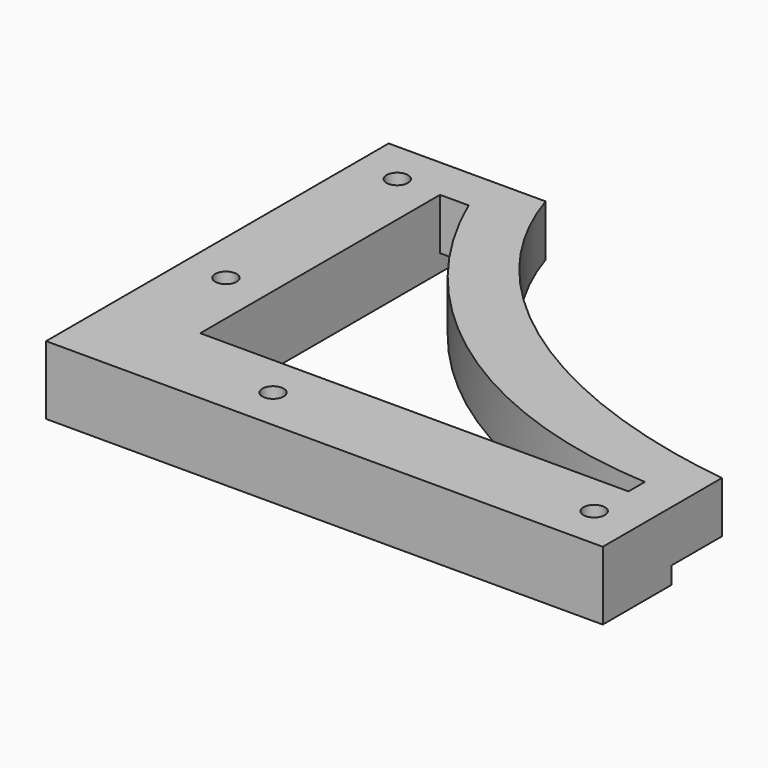
from build123d import *

# Parameters (mm, degrees)
F1_DEPTH  = 12
F2_W      = 130
F2_H      = 20
F3_DEPTH  = 5
F4_W      = 105
F4_H      = 20
F5_DEPTH  = 5
F7_W      = 20
F7_H      = 100
F7_R      = 2.5
F7_H_2    = 20
F7_W_2    = 130
F8_DEPTH  = 25
F9_DEPTH  = 5
F10_W     = 130
F10_H     = 20
F10_W_2   = 20
F10_H_2   = 100
F11_DEPTH = 25
F12_W     = 100
F12_H     = 9
F13_DEPTH = 150
F15_DEPTH = 25


with BuildPart() as f1:
    # F0 (on Top) → F1 (new body)
    with BuildSketch(Plane.XY):
        with BuildLine():
            add(Edge.make_bspline(
                [(-116.5, 0), (-116.5, -86.5), (0, -86.5)],
                knots=[3.1415926536, 3.1415926536, 3.1415926536, 4.7123889804, 4.7123889804, 4.7123889804], degree=2, weights=[1, 0.7071067812, 1]))
            Line((-116.5, 0), (-116.5, -86.5))
            Line((-116.5, -86.5), (0, -86.5))
        make_face()
        Polygon((-116.5, -86.5), (-116.5, 0), (-130, 0), (-130, -100), (0, -100), (0, -86.5), align=None)
    extrude(amount=F1_DEPTH)

    # F2 (on face) → F3 (join)
    with BuildSketch(Plane.XZ.offset(100)):
        with Locations((-65, 6)):
            Rectangle(F2_W, F2_H)
    extrude(amount=F3_DEPTH)

    # F4 (on face) → F5 (join)
    with BuildSketch(Plane(origin=(-130, 0, 0), x_dir=(0, -1, 0), z_dir=(-1, 0, 0))):
        with Locations((52.5, 6)):
            Rectangle(F4_W, F4_H)
    extrude(amount=F5_DEPTH)

    # F7 (on face) → F8 (join)
    with BuildSketch(Plane(origin=(0, 0, -4), x_dir=(1, 0, 0), z_dir=(0, 0, -1))):
        with Locations((-140, 50)):
            Rectangle(F7_W, F7_H)
        with Locations((-140, 30)):
            Circle(F7_R, mode=Mode.SUBTRACT)
        with Locations((-140, 80)):
            Circle(F7_R, mode=Mode.SUBTRACT)
        with Locations((-140, 110)):
            Rectangle(F7_W, F7_H_2)
        with Locations((-65, 110)):
            Rectangle(F7_W_2, F7_H_2)
        with Locations((-105, 110)):
            Circle(F7_R, mode=Mode.SUBTRACT)
        with Locations((-30, 110)):
            Circle(F7_R, mode=Mode.SUBTRACT)
    extrude(amount=-F8_DEPTH)

    # F6 (on face) → F9 (join)
    with BuildSketch(Plane.XY.offset(16)):
        Polygon((-120, 0), (-135, 0), (-135, -105), (0, -105), (0, -90), (-120, -90), align=None)
    extrude(amount=F9_DEPTH)

    # F10 (on Top) → F11 (cut, symmetric)
    with BuildSketch(Plane.XY):
        with Locations((-85, -10)):
            Rectangle(F10_W, F10_H)
        with Locations((-10, -10)):
            Rectangle(F10_W_2, F10_H)
        with Locations((-10, -70)):
            Rectangle(F10_W_2, F10_H_2)
    extrude(amount=F11_DEPTH, both=True, mode=Mode.SUBTRACT)

    # F12 (on face) → F13 (cut)
    with BuildSketch(Plane.YZ.offset(-20)):
        with Locations((-70, 16.5)):
            Rectangle(F12_W, F12_H)
    extrude(amount=-F13_DEPTH, mode=Mode.SUBTRACT)

    # F14 (on face) → F15 (cut)
    with BuildSketch(Plane(origin=(0, 0, 0), x_dir=(1, 0, 0), z_dir=(0, 0, -1))):
        with BuildLine():
            Line((-30, 100), (-130, 100))
            Line((-130, 100), (-130, 30))
            Line((-130, 30), (-123.3431933691, 30))
            ThreePointArc((-123.3431933691, 30), (-85.9046810739, 75.8231903114), (-30, 95.2158076494))
            Line((-30, 95.2158076494), (-30, 100))
        make_face()
    extrude(amount=-F15_DEPTH, mode=Mode.SUBTRACT)


solid = f1.part
